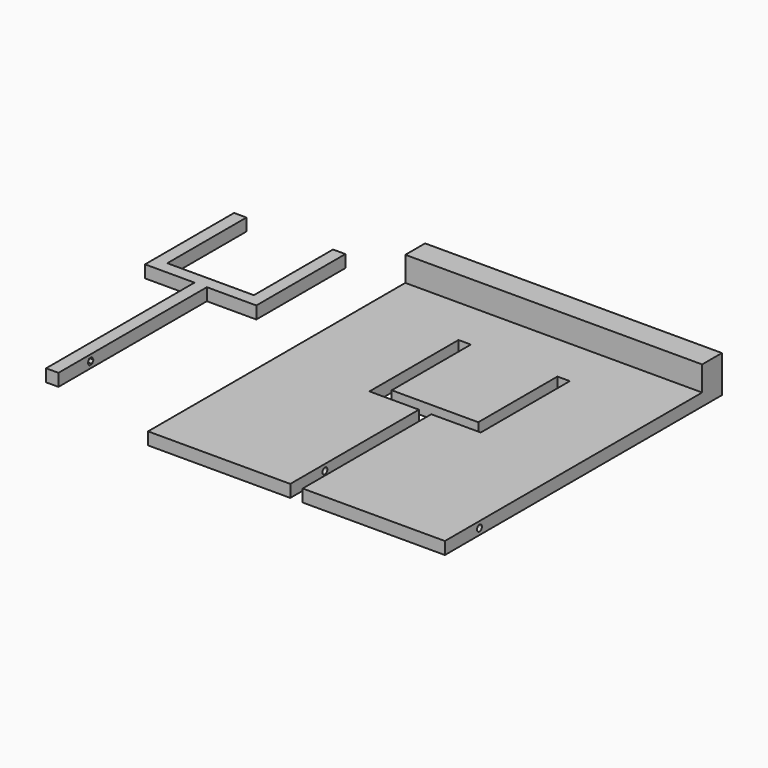
from build123d import *

# Parameters (mm, degrees)
F0_W          = 304.8
F0_H          = 330.2
F1_DEPTH      = 12.7
F2_W          = 12.7
F2_H          = 101.6
F3_DEPTH      = 25.4
F5_DEPTH      = 203.2
F5_DEPTH_BACK = 203.2
F7_DEPTH      = 12.7
F9_DEPTH      = 12.7
F0_H_2        = 25.4
F10_DEPTH     = 38.1


with BuildPart() as f1:
    # F0 (on Top) → F1 (new body)
    with BuildSketch(Plane.XY):
        with Locations((0, -12.7)):
            Rectangle(F0_W, F0_H)
    extrude(amount=F1_DEPTH)

    # F2 (on face) → F3 (cut)
    with BuildSketch(Plane.XY.offset(12.7)):
        Polygon((-6.35, -177.8), (6.35, -177.8), (6.35, -12.7), (6.35, 0), (-6.35, 0), (-6.35, -12.7), align=None)
        Polygon((6.35, 0), (6.35, -12.7), (57.15, -12.7), (57.15, 0), (44.45, 0), align=None)
        Polygon((-57.15, -12.7), (-6.35, -12.7), (-6.35, 0), (-44.45, 0), (-57.15, 0), align=None)
        with Locations((50.8, 50.8)):
            Rectangle(F2_W, F2_H)
        with Locations((-50.8, 50.8)):
            Rectangle(F2_W, F2_H)
    extrude(amount=-F3_DEPTH, mode=Mode.SUBTRACT)

    # F4 (on face) → F5 (cut, two sides)
    with BuildSketch(Plane.YZ.offset(-6.35)) as f5_sk:
        with BuildLine():
            ThreePointArc((-130.1746294843, 6.35), (-131.1046739755, 8.5953260245), (-133.35, 9.5253705157))
            Line((-133.35, 9.5253705157), (-133.35, 3.1746294843))
            ThreePointArc((-133.35, 3.1746294843), (-131.1046739755, 4.1046739755), (-130.1746294843, 6.35))
        make_face()
        with BuildLine():
            Line((-133.35, 3.1746294843), (-133.35, 9.5253705157))
            ThreePointArc((-133.35, 9.5253705157), (-136.5253705157, 6.35), (-133.35, 3.1746294843))
        make_face()
    extrude(amount=-F5_DEPTH, mode=Mode.SUBTRACT)
    extrude(f5_sk.sketch, amount=F5_DEPTH_BACK, mode=Mode.SUBTRACT)

    # F0 (on Top) → F10 (join)
    with BuildSketch(Plane.XY):
        with Locations((0, 165.1)):
            Rectangle(F0_W, F0_H_2)
    extrude(amount=F10_DEPTH)


with BuildPart() as f7:
    # F6 (on Top) → F7 (new body)
    with BuildSketch(Plane.XY):
        Polygon((-299.9245563491, 66.2182163289), (-299.9245563491, -124.2817836711), (-287.2245563491, -124.2817836711), (-287.2245563491, 66.2182163289), (-236.4245563491, 66.2182163289), (-236.4245563491, 180.5182163289), (-249.1245563491, 180.5182163289), (-249.1245563491, 78.9182163289), (-338.0245563491, 78.9182163289), (-338.0245563491, 180.5182163289), (-350.7245563491, 180.5182163289), (-350.7245563491, 66.2182163289), align=None)
    extrude(amount=-F7_DEPTH)

    # F8 (on face) → F9 (cut)
    with BuildSketch(Plane.YZ.offset(-287.2245563491)):
        Polygon((-86.672928993, -6.3645537533), (-84.8272524119, -9.5322518594), (-81.16110709, -9.5176981061), (-79.3406383491, -6.3354462467), (-81.1863149302, -3.1677481406), (-84.8524602522, -3.1823018939), align=None)
    extrude(amount=-F9_DEPTH, mode=Mode.SUBTRACT)


solid = Compound([f1.part, f7.part])
